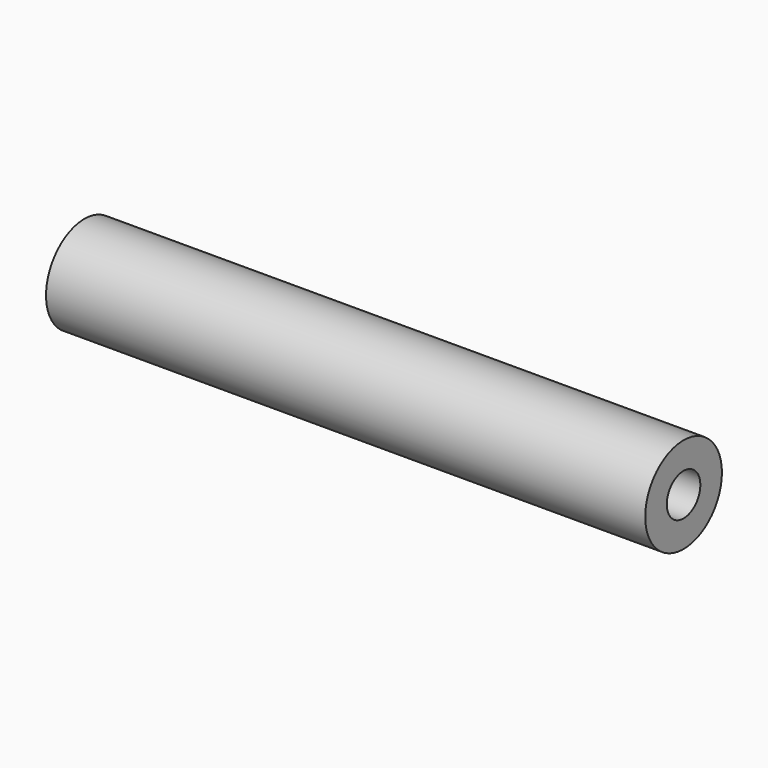
from build123d import *

# Parameters (mm, degrees)
F0_R     = 2.032
F1_DEPTH = 12.7
F3_D     = 1.778
F3_DEPTH = 5.1707142857
F3_TIP   = 0.5341650903
F5_D     = 1.778
F5_DEPTH = 5.1816
F5_TIP   = 0.5341650903


with BuildPart() as f1:
    # F0 (on Right) → F1 (new body, symmetric)
    with BuildSketch(Plane.YZ):
        Circle(F0_R)
    extrude(amount=F1_DEPTH, both=True)

    # F3
    with Locations(Plane.YZ.offset(12.7)):
        with Locations((0, 0)):
            Hole(F3_D / 2, depth=F3_DEPTH)
            with Locations((0, 0, -(F3_DEPTH + F3_TIP / 2))):  # 118° drill point
                Cone(0, F3_D / 2, F3_TIP, mode=Mode.SUBTRACT)

    # F5
    with Locations(Plane(origin=(-12.7, 0, 0), x_dir=(0, -1, 0), z_dir=(-1, 0, 0))):
        with Locations((0, 0)):
            Hole(F5_D / 2, depth=F5_DEPTH)
            with Locations((0, 0, -(F5_DEPTH + F5_TIP / 2))):  # 118° drill point
                Cone(0, F5_D / 2, F5_TIP, mode=Mode.SUBTRACT)


solid = f1.part
